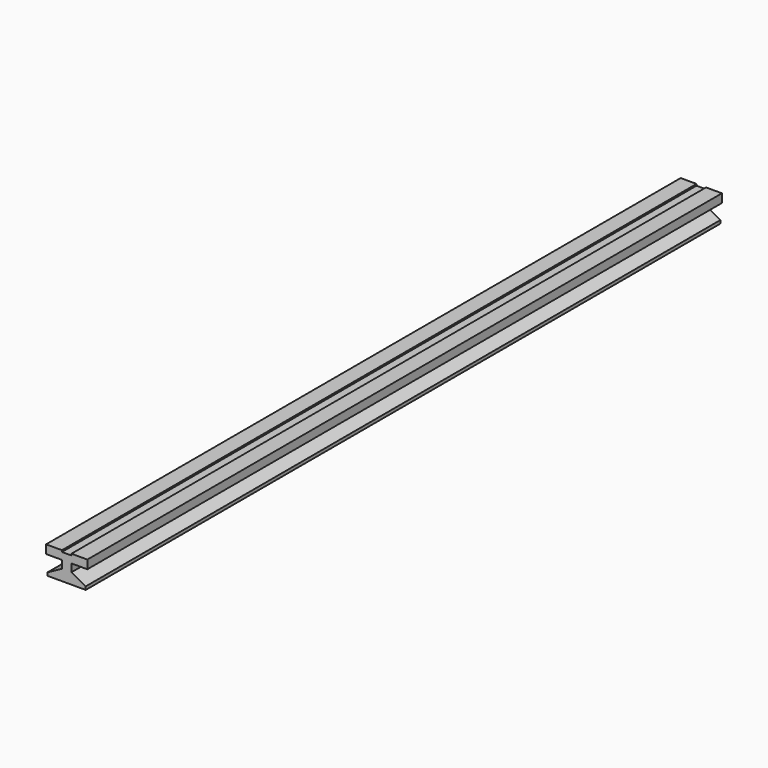
from build123d import *

# Parameters (mm, degrees)
F1_DEPTH = 250


with BuildPart() as f1:
    # F0 (on Front) → F1 (new body)
    with BuildSketch(Plane.XZ):
        Polygon((1.5, 1), (6, 1), (1.5, 3.45), align=None)
        Polygon((-1.5, 3.45), (-6, 1), (-1.5, 1), align=None)
        Polygon((0, 0), (6, 0), (6, 1), (1.5, 1), (0, 1), align=None)
        Polygon((-6, 0), (0, 0), (0, 1), (-1.5, 1), (-6, 1), align=None)
        Polygon((-1.5, 1), (0, 1), (0, 5.9), (-1.5, 5.9), (-1.5, 3.45), align=None)
        Polygon((0, 5.9), (0, 1), (1.5, 1), (1.5, 3.45), (1.5, 5.9), align=None)
        Polygon((-1.5, 5.9), (0, 5.9), (0, 8.1), (-1.5, 8.1), (-1.5, 8.6), (-6.5, 8.6), (-6.5, 5.9), align=None)
        Polygon((0, 8.1), (0, 5.9), (1.5, 5.9), (6.5, 5.9), (6.5, 8.6), (1.5, 8.6), (1.5, 8.1), align=None)
    extrude(amount=F1_DEPTH)


solid = f1.part
